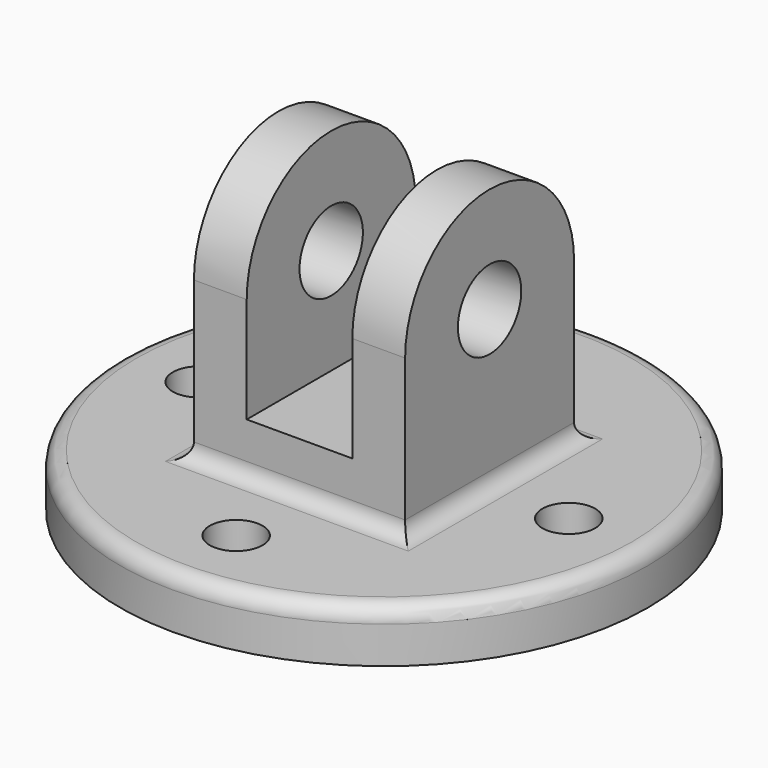
from build123d import *

# Parameters (mm, degrees)
F0_R          = 63.5
F0_R_2        = 6.35
F1_DEPTH      = 12.7
F3_DEPTH      = 25.4
F4_W          = 25.4
F4_H          = 83.1529996825
F5_DEPTH      = 63.501
F5_DEPTH_BACK = 63.501
F6_R          = 3.81


with BuildPart() as f1:
    # F0 (on Top) → F1 (new body)
    with BuildSketch(Plane.XY):
        Circle(F0_R)
        with Locations((0, -44.45)):
            Circle(F0_R_2, mode=Mode.SUBTRACT)
        with Locations((-44.45, 0)):
            Circle(F0_R_2, mode=Mode.SUBTRACT)
        with Locations((44.45, 0)):
            Circle(F0_R_2, mode=Mode.SUBTRACT)
        with Locations((0, 44.45)):
            Circle(F0_R_2, mode=Mode.SUBTRACT)
    extrude(amount=-F1_DEPTH)

    # F2 (on Right) → F3 (join, symmetric)
    with BuildSketch(Plane.YZ):
        with BuildLine():
            Line((-25.4, 0), (25.4, 0))
            Line((25.4, 0), (25.4, 38.1))
            Line((25.4, 38.1), (9.525, 38.1))
            ThreePointArc((9.525, 38.1), (0, 28.575), (-9.525, 38.1))
            Line((-9.525, 38.1), (-25.4, 38.1))
            Line((-25.4, 38.1), (-25.4, 0))
        make_face()
        with BuildLine():
            Line((9.525, 38.1), (25.4, 38.1))
            ThreePointArc((25.4, 38.1), (0, 63.5), (-25.4, 38.1))
            Line((-25.4, 38.1), (-9.525, 38.1))
            ThreePointArc((-9.525, 38.1), (0, 47.625), (9.525, 38.1))
        make_face()
    extrude(amount=F3_DEPTH, both=True)

    # F4 (on Front) → F5 (cut, two sides)
    with BuildSketch(Plane.XZ) as f5_sk:
        with Locations((0, 54.2764998413)):
            Rectangle(F4_W, F4_H)
    extrude(amount=-F5_DEPTH, mode=Mode.SUBTRACT)
    extrude(f5_sk.sketch, amount=F5_DEPTH_BACK, mode=Mode.SUBTRACT)

    # F6
    f6_edges = [f1.edges().sort_by_distance(p)[0] for p in [
        (-63.5, 0, 0),
        (0, -25.4, 0),
        (25.4, 0, 0),
        (0, 25.4, 0),
        (-25.4, 0, 0),
    ]]
    fillet(f6_edges, radius=F6_R)


solid = f1.part
